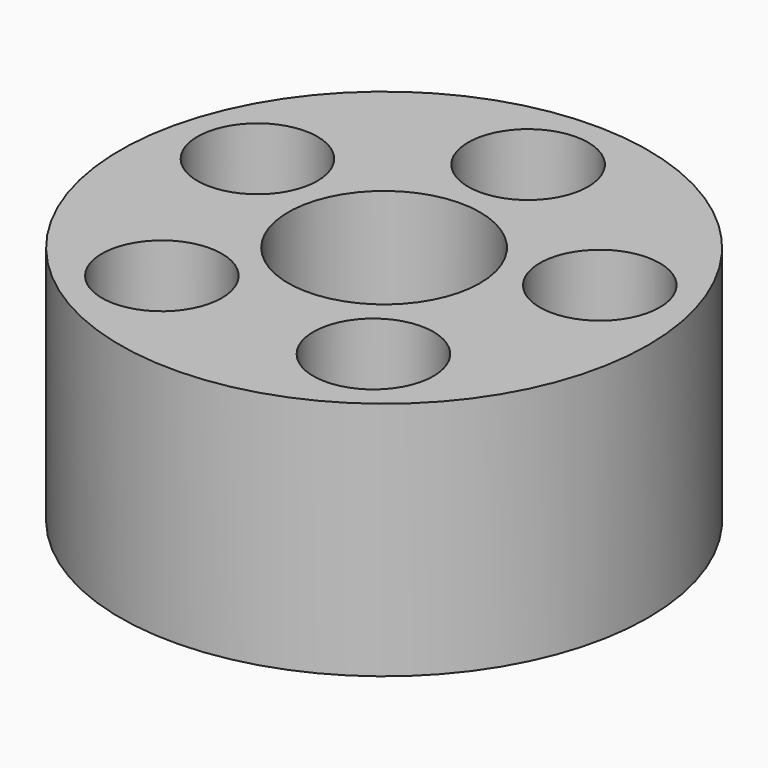
from build123d import *

# Parameters (mm, degrees)
F0_R     = 11
F0_R_2   = 2.5
F0_R_3   = 4
F1_DEPTH = 10


with BuildPart() as f1:
    # F0 (on Top) → F1 (new body)
    with BuildSketch(Plane.XY):
        Circle(F0_R)
        with Locations((-4.408389, -6.067627)):
            Circle(F0_R_2, mode=Mode.SUBTRACT)
        with Locations((4.408389, -6.067627)):
            Circle(F0_R_2, mode=Mode.SUBTRACT)
        with Locations((-7.132924, 2.317627)):
            Circle(F0_R_2, mode=Mode.SUBTRACT)
        Circle(F0_R_3, mode=Mode.SUBTRACT)
        with Locations((7.132924, 2.317627)):
            Circle(F0_R_2, mode=Mode.SUBTRACT)
        with Locations((0, 7.5)):
            Circle(F0_R_2, mode=Mode.SUBTRACT)
    extrude(amount=F1_DEPTH)


solid = f1.part
